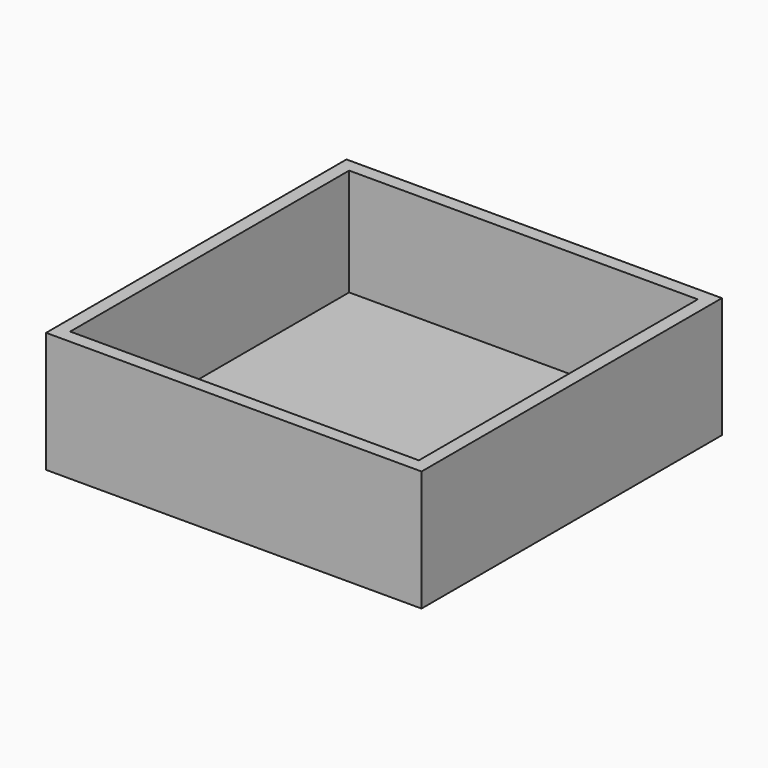
from build123d import *

# Parameters (mm, degrees)
F0_W     = 355.6
F0_H     = 355.6
F1_DEPTH = 12.7
F2_W     = 355.6
F2_H     = 12.7
F4_DEPTH = 101.6
F5_W     = 330.2
F5_H     = 12.7
F6_DEPTH = 101.6


with BuildPart() as f1:
    # F0 (on Top) → F1 (new body)
    with BuildSketch(Plane.XY):
        Rectangle(F0_W, F0_H)
    extrude(amount=F1_DEPTH)

    # F2 (on face) + F3 (on face) → F4 (join)
    with BuildSketch(Plane.XY.offset(12.7)):
        with Locations((0, 171.45)):
            Rectangle(F2_W, F2_H)
    with BuildSketch(Plane.XY.offset(12.7)):
        Polygon((-165.1, -177.8), (-165.1, 177.8), (-177.8, 177.8), (-177.8, -165.1), (-177.8, -177.8), align=None)
        Polygon((177.8, -177.8), (177.8, 165.1), (165.1, 165.1), (165.1, -165.1), (165.1, -177.8), align=None)
    extrude(amount=F4_DEPTH)

    # F5 (on face) → F6 (join)
    with BuildSketch(Plane.XY.offset(12.7)):
        with Locations((0, -171.45)):
            Rectangle(F5_W, F5_H)
    extrude(amount=F6_DEPTH)


solid = f1.part
